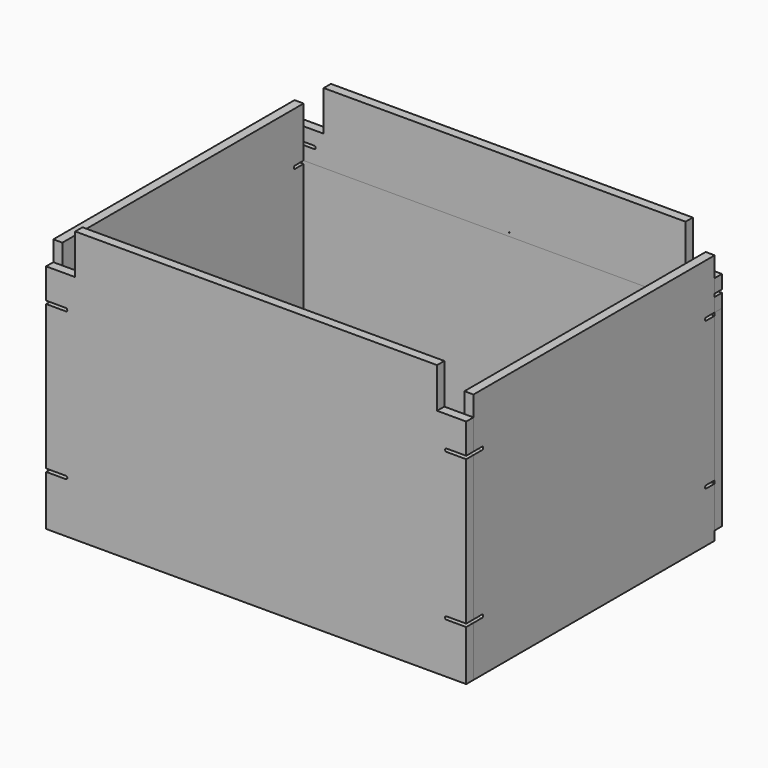
from build123d import *

# Parameters (mm, degrees)
F1_DEPTH  = 18
F3_DEPTH  = 18
F5_DEPTH  = 18
F6_W      = 58
F6_H      = 40
F7_DEPTH  = 25
F8_DEPTH  = 40
F10_DEPTH = 18
F11_R     = 0.5
F12_DEPTH = 18
F11_W     = 18
F11_H     = 288
F13_DEPTH = 18


with BuildPart() as f1:
    # F0 (on Front) → F1 (new body)
    with BuildSketch(Plane.XZ):
        with BuildLine():
            Line((-418, -250), (418, -250))
            Line((418, -250), (418, -150))
            Line((418, -150), (378.8, -150))
            ThreePointArc((378.8, -150), (375.8, -147), (378.8, -144))
            Line((378.8, -144), (418, -144))
            Line((418, -144), (418, 144))
            Line((418, 144), (378.8, 144))
            ThreePointArc((378.8, 144), (375.8, 147), (378.8, 150))
            Line((378.8, 150), (418, 150))
            Line((418, 150), (418, 250))
            Line((418, 250), (-418, 250))
            Line((-418, 250), (-418, 150))
            Line((-418, 150), (-378.8, 150))
            ThreePointArc((-378.8, 150), (-375.8, 147), (-378.8, 144))
            Line((-378.8, 144), (-418, 144))
            Line((-418, 144), (-418, -144))
            Line((-418, -144), (-378.8, -144))
            ThreePointArc((-378.8, -144), (-375.8, -147), (-378.8, -150))
            Line((-378.8, -150), (-418, -150))
            Line((-418, -150), (-418, -250))
        make_face()
    extrude(amount=F1_DEPTH)

    # F6 (on face) → F7 (cut)
    with BuildSketch(Plane.XZ.offset(18)):
        with Locations((-389, 230)):
            Rectangle(F6_W, F6_H)
        with Locations((389, 230)):
            Rectangle(F6_W, F6_H)
    extrude(amount=-F7_DEPTH, mode=Mode.SUBTRACT)

    # F8 (add): a face of the model
    f8_faces = [f1.faces().sort_by_distance(p)[0] for p in [
        (0, -9, 250),
    ]]
    extrude(f8_faces, amount=F8_DEPTH)


with BuildPart() as f3:
    # F2 (on face) → F3 (new body)
    with BuildSketch(Plane.YZ.offset(418)):
        with BuildLine():
            Line((600, 250), (0, 250))
            Line((0, 250), (0, 150))
            Line((0, 150), (21.2, 150))
            ThreePointArc((21.2, 150), (24.2, 147), (21.2, 144))
            Line((21.2, 144), (0, 144))
            Line((0, 144), (0, -144))
            Line((0, -144), (21.2, -144))
            ThreePointArc((21.2, -144), (24.2, -147), (21.2, -150))
            Line((21.2, -150), (0, -150))
            Line((0, -150), (0, -250))
            Line((0, -250), (600, -250))
            Line((600, -250), (600, -150))
            Line((600, -150), (578.8, -150))
            ThreePointArc((578.8, -150), (575.8, -147), (578.8, -144))
            Line((578.8, -144), (600, -144))
            Line((600, -144), (600, 144))
            Line((600, 144), (578.8, 144))
            ThreePointArc((578.8, 144), (575.8, 147), (578.8, 150))
            Line((578.8, 150), (600, 150))
            Line((600, 150), (600, 250))
        make_face()
    extrude(amount=-F3_DEPTH)


with BuildPart() as f5:
    # F4 (on face) → F5 (new body)
    with BuildSketch(Plane(origin=(-418, 0, 0), x_dir=(0, -1, 0), z_dir=(-1, 0, 0))):
        with BuildLine():
            Line((0, 150), (0, 250))
            Line((0, 250), (-600, 250))
            Line((-600, 250), (-600, 150))
            Line((-600, 150), (-578.8, 150))
            ThreePointArc((-578.8, 150), (-575.8, 147), (-578.8, 144))
            Line((-578.8, 144), (-600, 144))
            Line((-600, 144), (-600, -144))
            Line((-600, -144), (-578.8, -144))
            ThreePointArc((-578.8, -144), (-575.8, -147), (-578.8, -150))
            Line((-578.8, -150), (-600, -150))
            Line((-600, -150), (-600, -250))
            Line((-600, -250), (0, -250))
            Line((0, -250), (0, -150))
            Line((0, -150), (-21.2, -150))
            ThreePointArc((-21.2, -150), (-24.2, -147), (-21.2, -144))
            Line((-21.2, -144), (0, -144))
            Line((0, -144), (0, 144))
            Line((0, 144), (-21.2, 144))
            ThreePointArc((-21.2, 144), (-24.2, 147), (-21.2, 150))
            Line((-21.2, 150), (0, 150))
        make_face()
    extrude(amount=-F5_DEPTH)


with BuildPart() as f10:
    # F9 (on face) → F10 (new body)
    with BuildSketch(Plane(origin=(0, 0, -250), x_dir=(1, 0, 0), z_dir=(0, 0, -1))):
        Polygon((-400, -40), (-400, -560), (-360, -560), (-360, -600), (360, -600), (360, -560), (400, -560), (400, -40), (360, -40), (360, 0), (-360, 0), (-360, -40), align=None)
    extrude(amount=-F10_DEPTH)


with BuildPart() as f12:
    # F11 (on face) → F12 (new body)
    with BuildSketch(Plane(origin=(0, 600, 0), x_dir=(-1, 0, 0), z_dir=(0, 1, 0))):
        with BuildLine():
            Line((360, 290), (-360, 290))
            Line((-360, 290), (-360, 210))
            Line((-360, 210), (-418, 210))
            Line((-418, 210), (-418, 183))
            Line((-418, 183), (-378.8, 183))
            ThreePointArc((-378.8, 183), (-375.8, 180), (-378.8, 177))
            Line((-378.8, 177), (-418, 177))
            Line((-418, 177), (-418, 150))
            Line((-418, 150), (-16.23, 150))
            Line((-16.23, 150), (16.23, 150))
            Line((16.23, 150), (418, 150))
            Line((418, 150), (418, 177))
            Line((418, 177), (378.8, 177))
            ThreePointArc((378.8, 177), (375.8, 180), (378.8, 183))
            Line((378.8, 183), (418, 183))
            Line((418, 183), (418, 210))
            Line((418, 210), (360, 210))
            Line((360, 210), (360, 290))
        make_face()
        with Locations((-9.23, 157)):
            Circle(F11_R, mode=Mode.SUBTRACT)
        with Locations((9.23, 159.52)):
            Circle(F11_R, mode=Mode.SUBTRACT)
    extrude(amount=F12_DEPTH)


with BuildPart() as f13:
    # F11 (on face) → F13 (new body)
    with BuildSketch(Plane(origin=(0, 600, 0), x_dir=(-1, 0, 0), z_dir=(0, 1, 0))):
        with Locations((-409, 0)):
            Rectangle(F11_W, F11_H)
        Polygon((-16.23, 150), (-418, 150), (-418, 144), (-400, 144), (-400, -144), (-418, -144), (-418, -232), (418, -232), (418, 150), (16.23, 150), align=None)
    extrude(amount=F13_DEPTH)


solid = Compound([f1.part, f3.part, f5.part, f10.part, f12.part, f13.part])
